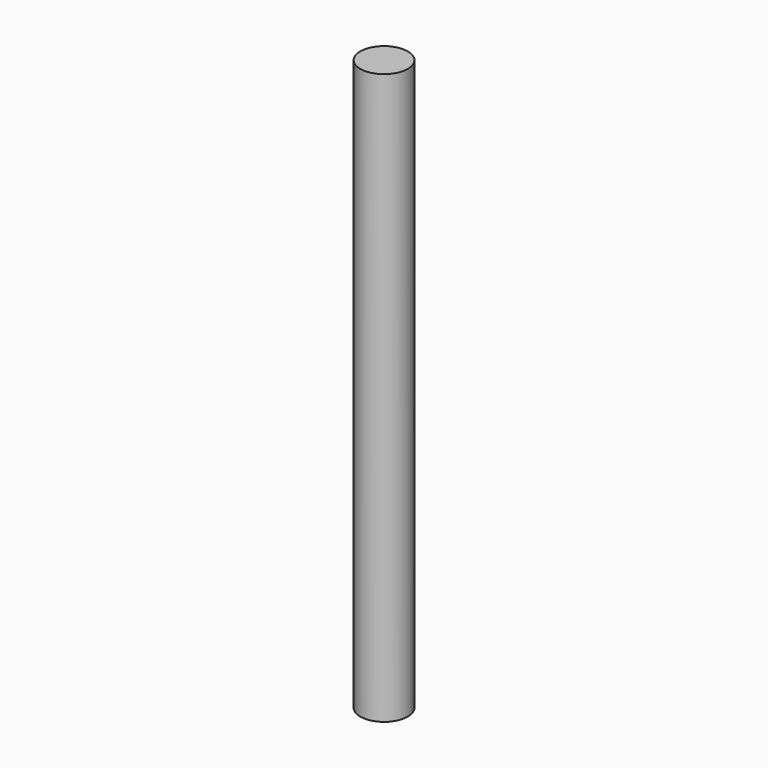
from build123d import *

# Parameters (mm, degrees)
F0_R     = 3.175
F1_DEPTH = 76.2
F2_DEPTH = 25.4
F3_DEPTH = 25.4


with BuildPart() as f1:
    # F0 (on Top) → F1 (new body)
    with BuildSketch(Plane.XY):
        Circle(F0_R)
    extrude(amount=F1_DEPTH)

    # F2 (cut): a face of the model
    f2_faces = [f1.faces().sort_by_distance(p)[0] for p in [
        (0, 0, 76.2),
    ]]
    extrude(f2_faces, amount=-F2_DEPTH, mode=Mode.SUBTRACT)

    # F3 (add): a face of the model
    f3_faces = [f1.faces().sort_by_distance(p)[0] for p in [
        (0, 0, 50.8),
    ]]
    extrude(f3_faces, amount=F3_DEPTH)


solid = f1.part
